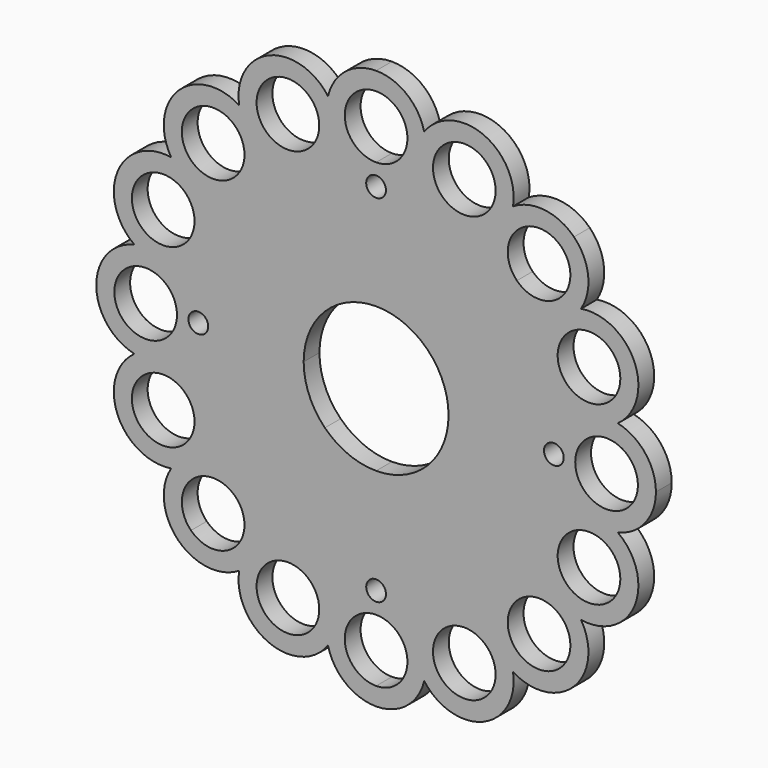
from build123d import *

# Parameters (mm, degrees)
F0_R     = 4.7575
F0_R_2   = 1.5
F1_DEPTH = 3


with BuildPart() as f1:
    # F0 (on Front) → F1 (new body)
    with BuildSketch(Plane.XZ):
        with BuildLine():
            ThreePointArc((20.795049, 31.12199), (16.264046, 39.26488), (7.30225, 36.71089))
            ThreePointArc((7.30225, 36.71089), (4.659309, 40.877145), (0, 42.5))
            ThreePointArc((0, 42.5), (-4.659309, 40.877145), (-7.30225, 36.71089))
            ThreePointArc((-7.30225, 36.71089), (-16.264046, 39.26488), (-20.795049, 31.12199))
            ThreePointArc((-20.795049, 31.12199), (-25.609878, 32.199136), (-30.052038, 30.052038))
            ThreePointArc((-30.052038, 30.052038), (-32.199136, 25.609878), (-31.12199, 20.795049))
            ThreePointArc((-31.12199, 20.795049), (-39.26488, 16.264046), (-36.71089, 7.30225))
            ThreePointArc((-36.71089, 7.30225), (-40.877145, 4.659309), (-42.5, 0))
            ThreePointArc((-42.5, 0), (-40.877145, -4.659309), (-36.71089, -7.30225))
            ThreePointArc((-36.71089, -7.30225), (-39.26488, -16.264046), (-31.12199, -20.795049))
            ThreePointArc((-31.12199, -20.795049), (-32.199136, -25.609878), (-30.052038, -30.052038))
            ThreePointArc((-30.052038, -30.052038), (-25.609878, -32.199136), (-20.795049, -31.12199))
            ThreePointArc((-20.795049, -31.12199), (-16.264046, -39.26488), (-7.30225, -36.71089))
            ThreePointArc((-7.30225, -36.71089), (-4.659309, -40.877145), (0, -42.5))
            ThreePointArc((0, -42.5), (4.659309, -40.877145), (7.30225, -36.71089))
            ThreePointArc((7.30225, -36.71089), (16.264046, -39.26488), (20.795049, -31.12199))
            ThreePointArc((20.795049, -31.12199), (25.609878, -32.199136), (30.052038, -30.052038))
            ThreePointArc((30.052038, -30.052038), (32.199136, -25.609878), (31.12199, -20.795049))
            ThreePointArc((31.12199, -20.795049), (39.26488, -16.264046), (36.71089, -7.30225))
            ThreePointArc((36.71089, -7.30225), (40.877145, -4.659309), (42.5, 0))
            ThreePointArc((42.5, 0), (40.877145, 4.659309), (36.71089, 7.30225))
            ThreePointArc((36.71089, 7.30225), (39.26488, 16.264046), (31.12199, 20.795049))
            ThreePointArc((31.12199, 20.795049), (32.199136, 25.609878), (30.052038, 30.052038))
            ThreePointArc((30.052038, 30.052038), (25.609878, 32.199136), (20.795049, 31.12199))
        make_face()
        with BuildLine():
            ThreePointArc((-28.112798, -28.112798), (-28.112798, -21.384677), (-21.384677, -21.384677))
            ThreePointArc((-21.384677, -21.384677), (-20.35338, -22.928121), (-19.991237, -24.748737))
            ThreePointArc((-19.991237, -24.748737), (-22.928121, -29.144094), (-28.112798, -28.112798))
        make_face(mode=Mode.SUBTRACT)
        with Locations((-13.39392, -32.335784)):
            Circle(F0_R, mode=Mode.SUBTRACT)
        with Locations((-32.335784, -13.39392)):
            Circle(F0_R, mode=Mode.SUBTRACT)
        with BuildLine():
            ThreePointArc((0, -39.7575), (-4.7575, -35), (0, -30.2425))
            ThreePointArc((0, -30.2425), (3.364061, -31.635939), (4.7575, -35))
            ThreePointArc((4.7575, -35), (3.364061, -38.364061), (0, -39.7575))
        make_face(mode=Mode.SUBTRACT)
        with Locations((13.39392, -32.335784)):
            Circle(F0_R, mode=Mode.SUBTRACT)
        with Locations((0, -27)):
            Circle(F0_R_2, mode=Mode.SUBTRACT)
        with BuildLine():
            ThreePointArc((28.112798, -28.112798), (21.384677, -28.112798), (21.384677, -21.384677))
            ThreePointArc((21.384677, -21.384677), (26.569354, -20.35338), (29.506237, -24.748737))
            ThreePointArc((29.506237, -24.748737), (29.144094, -26.569354), (28.112798, -28.112798))
        make_face(mode=Mode.SUBTRACT)
        with Locations((32.335784, -13.39392)):
            Circle(F0_R, mode=Mode.SUBTRACT)
        with BuildLine():
            ThreePointArc((-39.7575, 0), (-35, 4.7575), (-30.2425, 0))
            ThreePointArc((-30.2425, 0), (-35, -4.7575), (-39.7575, 0))
        make_face(mode=Mode.SUBTRACT)
        with Locations((-27, 0)):
            Circle(F0_R_2, mode=Mode.SUBTRACT)
        with Locations((-32.335784, 13.39392)):
            Circle(F0_R, mode=Mode.SUBTRACT)
        with BuildLine():
            ThreePointArc((-19.991237, 24.748737), (-20.35338, 22.928121), (-21.384677, 21.384677))
            ThreePointArc((-21.384677, 21.384677), (-28.112798, 21.384677), (-28.112798, 28.112798))
            ThreePointArc((-28.112798, 28.112798), (-22.928121, 29.144094), (-19.991237, 24.748737))
        make_face(mode=Mode.SUBTRACT)
        with Locations((-13.39392, 32.335784)):
            Circle(F0_R, mode=Mode.SUBTRACT)
        with BuildLine():
            ThreePointArc((0, 11), (4.209518, 10.162675), (7.778175, 7.778175))
            ThreePointArc((7.778175, 7.778175), (10.162675, 4.209518), (11, 0))
            ThreePointArc((11, 0), (10.162675, -4.209518), (7.778175, -7.778175))
            ThreePointArc((7.778175, -7.778175), (4.209518, -10.162675), (0, -11))
            ThreePointArc((0, -11), (-4.209518, -10.162675), (-7.778175, -7.778175))
            ThreePointArc((-7.778175, -7.778175), (-10.162675, -4.209518), (-11, 0))
            ThreePointArc((-11, 0), (-10.162675, 4.209518), (-7.778175, 7.778175))
            ThreePointArc((-7.778175, 7.778175), (-4.209518, 10.162675), (0, 11))
        make_face(mode=Mode.SUBTRACT)
        with Locations((27, 0)):
            Circle(F0_R_2, mode=Mode.SUBTRACT)
        with BuildLine():
            ThreePointArc((39.7575, 0), (35, -4.7575), (30.2425, 0))
            ThreePointArc((30.2425, 0), (35, 4.7575), (39.7575, 0))
        make_face(mode=Mode.SUBTRACT)
        with Locations((32.335784, 13.39392)):
            Circle(F0_R, mode=Mode.SUBTRACT)
        with Locations((0, 27)):
            Circle(F0_R_2, mode=Mode.SUBTRACT)
        with BuildLine():
            ThreePointArc((0, 39.7575), (3.364061, 38.364061), (4.7575, 35))
            ThreePointArc((4.7575, 35), (3.364061, 31.635939), (0, 30.2425))
            ThreePointArc((0, 30.2425), (-4.7575, 35), (0, 39.7575))
        make_face(mode=Mode.SUBTRACT)
        with Locations((13.39392, 32.335784)):
            Circle(F0_R, mode=Mode.SUBTRACT)
        with BuildLine():
            ThreePointArc((21.384677, 21.384677), (21.384677, 28.112798), (28.112798, 28.112798))
            ThreePointArc((28.112798, 28.112798), (29.144094, 26.569354), (29.506237, 24.748737))
            ThreePointArc((29.506237, 24.748737), (26.569354, 20.35338), (21.384677, 21.384677))
        make_face(mode=Mode.SUBTRACT)
    extrude(amount=F1_DEPTH)


solid = f1.part
